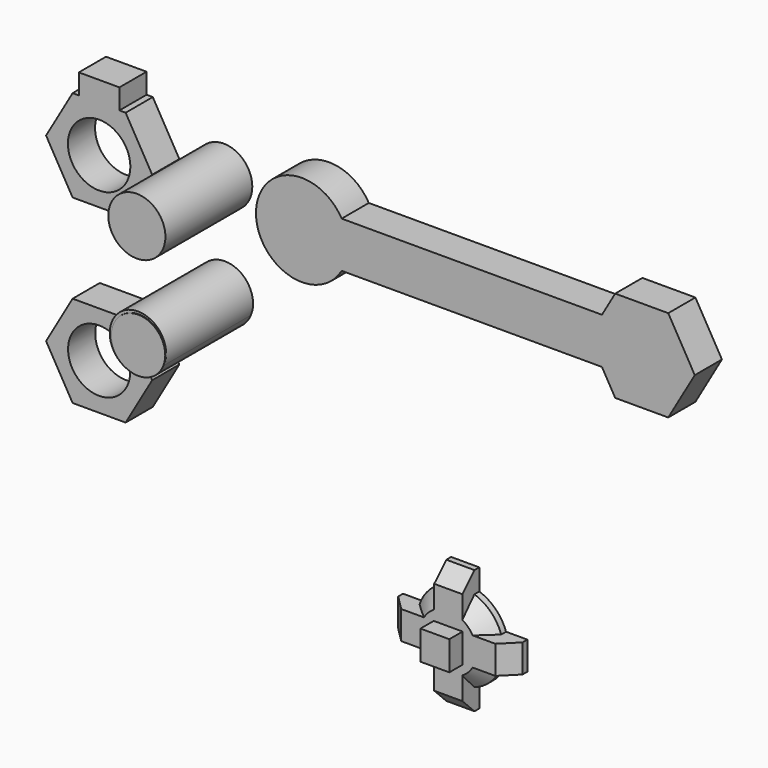
from build123d import *

# Parameters (mm, degrees)
F0_R      = 10.519302146
F1_DEPTH  = 11.43
F0_R_2    = 10.4571143602
F2_R      = 9.5042113309
F3_DEPTH  = 36.576
F2_R_2    = 9.621642993
F5_DEPTH  = 7.112
F6_SIZE   = 5.08
F7_W      = 9.7099430859
F7_H      = 9.8328515887
F8_DEPTH  = 12.7
F9_R      = 9.0793803352
F10_DEPTH = 36.83


with BuildPart() as f1:
    # F0 (on Front) → F1 (new body)
    with BuildSketch(Plane.XZ):
        Polygon((-75.1246213913, 76.4004662633), (-77.2196794092, 76.4004662633), (-86.1505557177, 60.9317347407), (-77.2196794092, 45.4630032182), (-59.357926792, 45.4630032182), (-50.4270504834, 60.9317347407), (-59.357926792, 76.4004662633), (-61.4529848099, 76.4004662633), (-61.4529848099, 69.5646479726), (-68.2888031006, 76.4004662633), (-75.1246213913, 69.5646479726), align=None)
        with Locations((-68.2888031006, 60.9317347407)):
            Circle(F0_R, mode=Mode.SUBTRACT)
        Polygon((-75.1246213913, 83.236284554), (-75.1246213913, 76.4004662633), (-68.2888031006, 76.4004662633), (-61.4529848099, 76.4004662633), (-61.4529848099, 83.236284554), align=None)
        Polygon((-68.2888031006, 76.4004662633), (-75.1246213913, 76.4004662633), (-75.1246213913, 69.5646479726), align=None)
        Polygon((-61.4529848099, 76.4004662633), (-68.2888031006, 76.4004662633), (-61.4529848099, 69.5646479726), align=None)
    extrude(amount=F1_DEPTH)


with BuildPart() as f1b:
    # F0 (on Front) → F1, piece 2 (new body)
    with BuildSketch(Plane.XZ):
        with BuildLine():
            ThreePointArc((15.4687315226, 60.9317347407), (14.9416472776, 64.9353370624), (13.3963144629, 68.666100502))
            Line((13.3963144629, 68.666100502), (13.3963144629, 53.1973689795))
            ThreePointArc((13.3963144629, 53.1973689795), (14.9416472776, 56.9281324191), (15.4687315226, 60.9317347407))
        make_face()
        with BuildLine():
            Line((101.0556601675, 68.666100502), (13.3963144629, 68.666100502))
            ThreePointArc((13.3963144629, 68.666100502), (14.9416472776, 64.9353370624), (15.4687315226, 60.9317347407))
            ThreePointArc((15.4687315226, 60.9317347407), (14.9416472776, 56.9281324191), (13.3963144629, 53.1973689795))
            Line((13.3963144629, 53.1973689795), (101.0556601675, 53.1973689795))
            Line((101.0556601675, 53.1973689795), (96.5902220132, 60.9317347407))
            Line((96.5902220132, 60.9317347407), (101.0556601675, 68.666100502))
        make_face()
        with BuildLine():
            Line((13.3963144629, 53.1973689795), (13.3963144629, 68.666100502))
            ThreePointArc((13.3963144629, 68.666100502), (-15.4687315226, 60.9317347407), (13.3963144629, 53.1973689795))
        make_face()
        Polygon((105.5210983218, 76.4004662633), (101.0556601675, 68.666100502), (114.4519746304, 68.666100502), (114.4519746304, 53.1973689795), (101.0556601675, 53.1973689795), (105.5210983218, 45.4630032182), (123.3828509389, 45.4630032182), (132.3137272475, 60.9317347407), (123.3828509389, 76.4004662633), align=None)
        Polygon((114.4519746304, 68.666100502), (101.0556601675, 68.666100502), (96.5902220132, 60.9317347407), (101.0556601675, 53.1973689795), (114.4519746304, 53.1973689795), align=None)
    extrude(amount=F1_DEPTH)


with BuildPart() as f1c:
    # F0 (on Front) → F1, piece 3 (new body)
    with BuildSketch(Plane.XZ):
        Polygon((-59.357926792, -15.4687315226), (-50.4270504834, 0), (-59.357926792, 15.4687315226), (-77.2196794092, 15.4687315226), (-86.1505557177, 0), (-77.2196794092, -15.4687315226), align=None)
        with Locations((-68.2888031006, 0)):
            Circle(F0_R_2, mode=Mode.SUBTRACT)
    extrude(amount=F1_DEPTH)


with BuildPart() as f3:
    # F2 (on Front) → F3 (new body)
    with BuildSketch(Plane.XZ):
        with Locations((-35.0903049111, 26.1225104332)):
            Circle(F2_R)
    extrude(amount=F3_DEPTH)

    # F9 (on Front) → F10 (join)
    with BuildSketch(Plane.XZ):
        with Locations((-34.7743965685, 25.7699601352)):
            Circle(F9_R)
    extrude(amount=F10_DEPTH)


with BuildPart() as f3b:
    # F2 (on Front) → F3, piece 2 (new body)
    with BuildSketch(Plane.XZ):
        with Locations((-35.4631394148, 60.7567168772)):
            Circle(F2_R_2)
    extrude(amount=F3_DEPTH)


with BuildPart() as f5:
    # F4 (on Front) → F5 (new body)
    with BuildSketch(Plane.XZ):
        with BuildLine():
            ThreePointArc((59.6135334386, -52.9624782503), (60.2132493643, -50.6137481904), (60.4150185059, -48.1980741024))
            ThreePointArc((60.4150185059, -48.1980741024), (60.2132493643, -45.7824000144), (59.6135334386, -43.4336699545))
            Line((59.6135334386, -43.4336699545), (50.5945459008, -43.4336699545))
            Line((50.5945459008, -43.4336699545), (50.5945459008, -52.9624782503))
            Line((50.5945459008, -52.9624782503), (59.6135334386, -52.9624782503))
        make_face()
        with BuildLine():
            ThreePointArc((59.6135334386, -43.4336699545), (60.2132493643, -45.7824000144), (60.4150185059, -48.1980741024))
            ThreePointArc((60.4150185059, -48.1980741024), (60.2132493643, -50.6137481904), (59.6135334386, -52.9624782503))
            Line((59.6135334386, -52.9624782503), (66.783182323, -52.9624782503))
            Line((66.783182323, -52.9624782503), (66.783182323, -43.4336699545))
            Line((66.783182323, -43.4336699545), (59.6135334386, -43.4336699545))
        make_face()
        with BuildLine():
            Line((50.5945459008, -43.4336699545), (59.6135334386, -43.4336699545))
            ThreePointArc((59.6135334386, -43.4336699545), (56.1413204063, -37.8927413191), (50.5945459008, -34.4298745776))
            Line((50.5945459008, -34.4298745776), (50.5945459008, -43.4336699545))
        make_face()
        with BuildLine():
            ThreePointArc((50.5945459008, -61.9662736272), (56.1413204063, -58.5034068857), (59.6135334386, -52.9624782503))
            Line((59.6135334386, -52.9624782503), (50.5945459008, -52.9624782503))
            Line((50.5945459008, -52.9624782503), (50.5945459008, -61.9662736272))
        make_face()
        with BuildLine():
            Line((50.5945459008, -43.4336699545), (50.5945459008, -34.4298745776))
            ThreePointArc((50.5945459008, -34.4298745776), (45.8533465862, -33.6364021827), (41.1121472716, -34.4298745776))
            Line((41.1121472716, -34.4298745776), (41.1121472716, -43.4336699545))
            Line((41.1121472716, -43.4336699545), (50.5945459008, -43.4336699545))
        make_face()
        with BuildLine():
            ThreePointArc((41.1121472716, -34.4298745776), (45.8533465862, -33.6364021827), (50.5945459008, -34.4298745776))
            Line((50.5945459008, -34.4298745776), (50.5945459008, -27.2682383657))
            Line((50.5945459008, -27.2682383657), (41.1121472716, -27.2682383657))
            Line((41.1121472716, -27.2682383657), (41.1121472716, -34.4298745776))
        make_face()
        with BuildLine():
            Line((50.5945459008, -69.1279098392), (50.5945459008, -61.9662736272))
            ThreePointArc((50.5945459008, -61.9662736272), (45.8533465862, -62.7597460221), (41.1121472716, -61.9662736272))
            Line((41.1121472716, -61.9662736272), (41.1121472716, -69.1279098392))
            Line((41.1121472716, -69.1279098392), (50.5945459008, -69.1279098392))
        make_face()
        with BuildLine():
            ThreePointArc((41.1121472716, -61.9662736272), (45.8533465862, -62.7597460221), (50.5945459008, -61.9662736272))
            Line((50.5945459008, -61.9662736272), (50.5945459008, -52.9624782503))
            Line((50.5945459008, -52.9624782503), (41.1121472716, -52.9624782503))
            Line((41.1121472716, -52.9624782503), (41.1121472716, -61.9662736272))
        make_face()
        with BuildLine():
            Line((41.1121472716, -43.4336699545), (41.1121472716, -34.4298745776))
            ThreePointArc((41.1121472716, -34.4298745776), (35.5653727662, -37.8927413191), (32.0931597339, -43.4336699545))
            Line((32.0931597339, -43.4336699545), (41.1121472716, -43.4336699545))
        make_face()
        with BuildLine():
            Line((41.1121472716, -52.9624782503), (41.1121472716, -43.4336699545))
            Line((41.1121472716, -43.4336699545), (32.0931597339, -43.4336699545))
            ThreePointArc((32.0931597339, -43.4336699545), (31.2916746666, -48.1980741024), (32.0931597339, -52.9624782503))
            Line((32.0931597339, -52.9624782503), (41.1121472716, -52.9624782503))
        make_face()
        with BuildLine():
            ThreePointArc((32.0931597339, -52.9624782503), (35.5653727662, -58.5034068857), (41.1121472716, -61.9662736272))
            Line((41.1121472716, -61.9662736272), (41.1121472716, -52.9624782503))
            Line((41.1121472716, -52.9624782503), (32.0931597339, -52.9624782503))
        make_face()
        with BuildLine():
            ThreePointArc((32.0931597339, -52.9624782503), (31.2916746666, -48.1980741024), (32.0931597339, -43.4336699545))
            Line((32.0931597339, -43.4336699545), (24.9235108495, -43.4336699545))
            Line((24.9235108495, -43.4336699545), (24.9235108495, -52.9624782503))
            Line((24.9235108495, -52.9624782503), (32.0931597339, -52.9624782503))
        make_face()
    extrude(amount=F5_DEPTH)

    # F6
    f6_edges = [f5.edges().sort_by_distance(p)[0] for p in [
        (45.853347, -7.112, -27.268238),
        (66.783182, -7.112, -48.198074),
        (45.853347, -7.112, -69.12791),
        (24.923511, -7.112, -48.198074),
        (56.14132, -7.112, -37.892741),
        (56.14132, -7.112, -58.503407),
        (35.565373, -7.112, -37.892741),
        (35.565373, -7.112, -58.503407),
    ]]
    chamfer(f6_edges, length=F6_SIZE)

    # F7 (on Front) → F8 (join)
    with BuildSketch(Plane.XZ):
        with Locations((45.8080749959, -48.3138300478)):
            Rectangle(F7_W, F7_H)
    extrude(amount=F8_DEPTH)


solid = Compound([f1.part, f1b.part, f1c.part, f3.part, f3b.part, f5.part])
